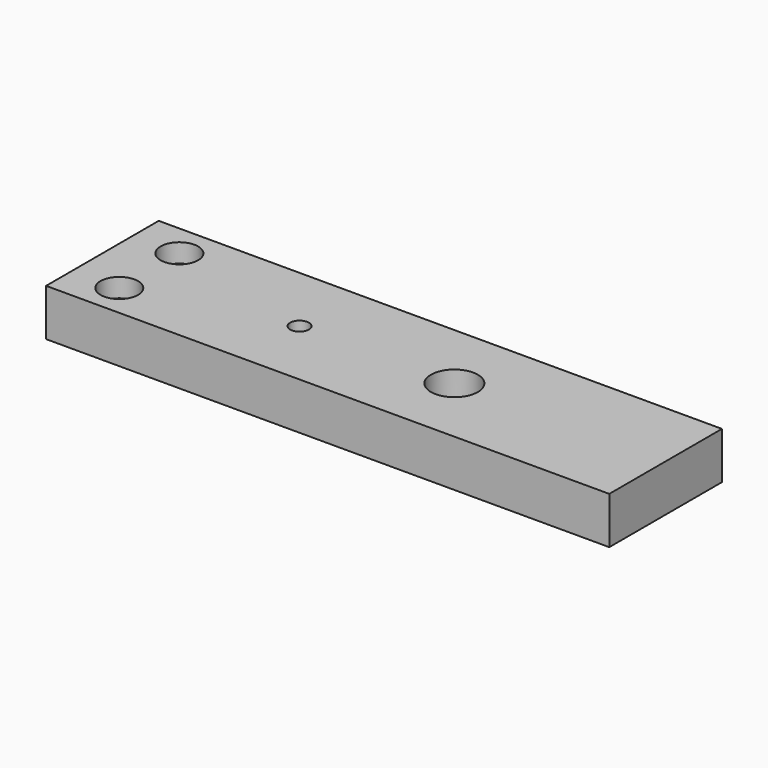
from build123d import *

# Parameters (mm, degrees)
F0_W           = 120
F0_H           = 30
F0_R           = 5
F1_DEPTH       = 10
F3_D           = 8
F3_CBORE_D     = 11.25
F3_CBORE_DEPTH = 6
F5_D           = 4


with BuildPart() as f1:
    # F0 (on Top) → F1 (new body)
    with BuildSketch(Plane.XY):
        with Locations((-15, 0)):
            Rectangle(F0_W, F0_H)
        Circle(F0_R, mode=Mode.SUBTRACT)
    extrude(amount=F1_DEPTH)

    # F3 (through all)
    with Locations(Plane(origin=(0, 0, 0), x_dir=(1, 0, 0), z_dir=(0, 0, -1))):
        with Locations((-65, 8), (-65, -8)):
            CounterBoreHole(F3_D / 2, F3_CBORE_D / 2, F3_CBORE_DEPTH)

    # F5 (through all)
    with Locations(Plane.XY.offset(10)):
        with Locations((-33, 0)):
            Hole(F5_D / 2)


solid = f1.part
